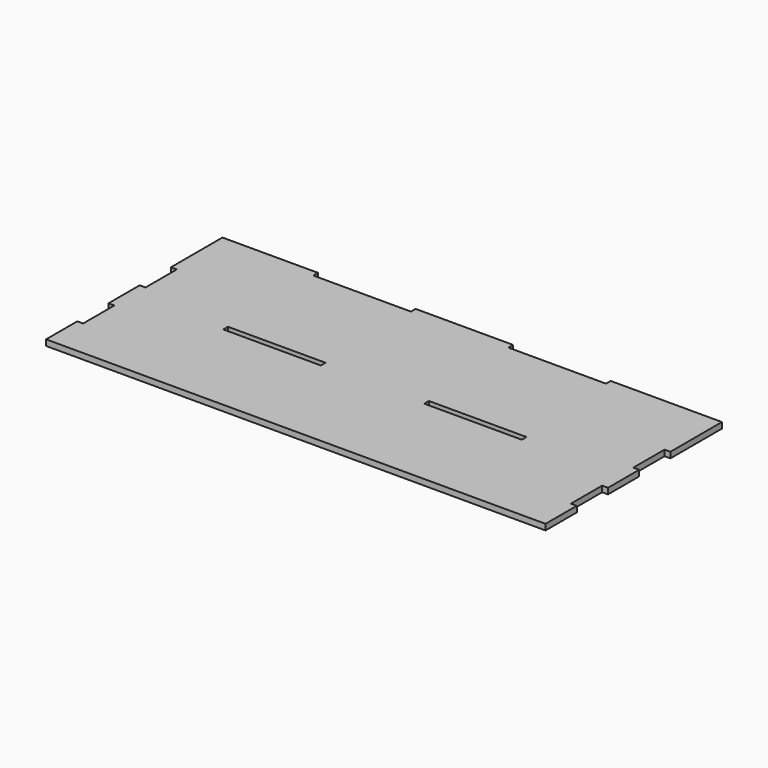
from build123d import *

# Parameters (mm, degrees)
F0_W     = 46
F0_H     = 3
F0_W_2   = 50
F0_W_3   = 3
F0_H_2   = 20
F0_W_4   = 54
F1_DEPTH = 3


with BuildPart() as f1:
    # F0 (on Top) → F1 (new body)
    with BuildSketch(Plane.XY):
        with Locations((-227, 1.5)):
            Rectangle(F0_W, F0_H)
        Polygon((-204, 0), (-250, 0), (-250, -30), (-250, -50), (-250, -70), (-250, -90), (-250, -110), (0, -110), (0, -90), (0, -70), (0, -50), (0, -30), (0, 0), (-54, 0), (-104, 0), (-154, 0), align=None)
        with Locations((-178, -57.5)):
            Rectangle(F0_W_2, F0_H, mode=Mode.SUBTRACT)
        with Locations((-74.99309, -57.5)):
            Rectangle(F0_W_2, F0_H, mode=Mode.SUBTRACT)
        Polygon((-250, -30), (-250, 0), (-250, 3), (-253, 3), (-253, -30), align=None)
        with Locations((-129, 1.5)):
            Rectangle(F0_W_2, F0_H)
        with Locations((-251.5, -60)):
            Rectangle(F0_W_3, F0_H_2)
        with Locations((-27, 1.5)):
            Rectangle(F0_W_4, F0_H)
        with Locations((-251.5, -100)):
            Rectangle(F0_W_3, F0_H_2)
        Polygon((0, 3), (0, 0), (0, -30), (3, -30), (3, 3), align=None)
        with Locations((1.5, -100)):
            Rectangle(F0_W_3, F0_H_2)
        with Locations((1.5, -60)):
            Rectangle(F0_W_3, F0_H_2)
    extrude(amount=F1_DEPTH)


solid = f1.part
